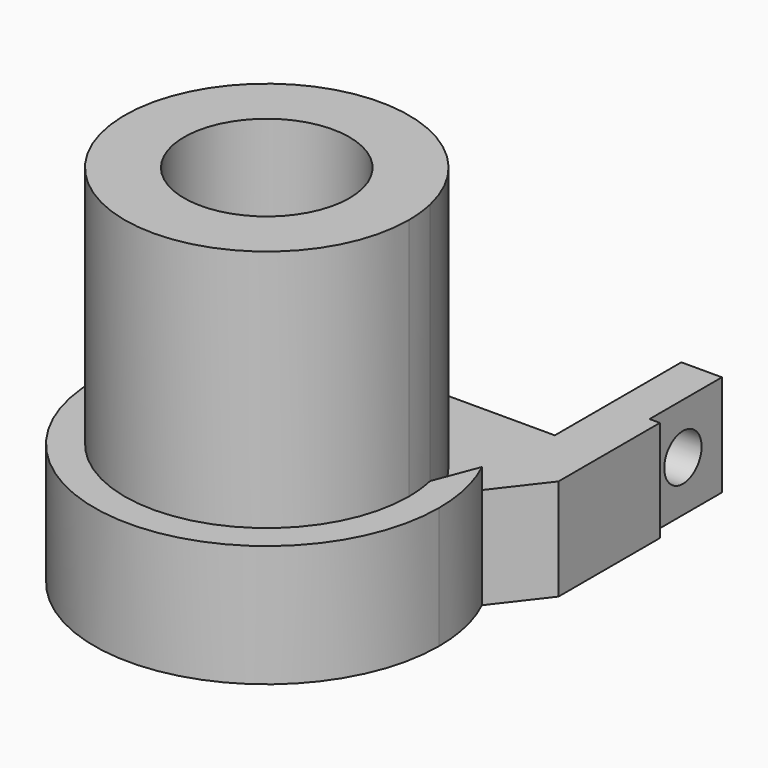
from build123d import *

# Parameters (mm, degrees)
F0_R     = 4.075
F1_DEPTH = 18
F0_W     = 2
F0_H     = 4.459151
F2_DEPTH = 5
F3_DEPTH = 6
F4_R     = 1.15
F5_DEPTH = 25


with BuildPart() as f1:
    # F0 (on Top) → F1 (new body)
    with BuildSketch(Plane.XY):
        with BuildLine():
            ThreePointArc((-6.831683, 1.525812), (-0.767534, -6.957794), (7, 0))
            ThreePointArc((7, 0), (6.957794, 0.767534), (6.831683, 1.525812))
            ThreePointArc((6.831683, 1.525812), (0, 7), (-6.831683, 1.525812))
        make_face()
        Circle(F0_R, mode=Mode.SUBTRACT)
    extrude(amount=F1_DEPTH)

    # F0 (on Top) → F2 (join)
    with BuildSketch(Plane.XY):
        Polygon((-9.510325, 12.338503), (-9.510325, 9), (-7, 9), (-7, 12.338503), (-9, 12.338503), align=None)
        with BuildLine():
            Line((-9.510325, 6.091482), (-7.658741, 3.686961))
            ThreePointArc((-7.658741, 3.686961), (-4.522767, 7.196845), (0, 8.5))
            Line((0, 8.5), (0, 9))
            Line((0, 9), (-7, 9))
            Line((-7, 9), (-9.510325, 9))
            Line((-9.510325, 9), (-9.510325, 6.091482))
        make_face()
        with BuildLine():
            ThreePointArc((-6.831683, 1.525812), (0, 7), (6.831683, 1.525812))
            Line((6.831683, 1.525812), (7.658741, 3.686961))
            ThreePointArc((7.658741, 3.686961), (4.522767, 7.196845), (0, 8.5))
            ThreePointArc((0, 8.5), (-4.522767, 7.196845), (-7.658741, 3.686961))
            Line((-7.658741, 3.686961), (-6.831683, 1.525812))
        make_face()
        with BuildLine():
            ThreePointArc((0, 8.5), (4.522767, 7.196845), (7.658741, 3.686961))
            Line((7.658741, 3.686961), (9.510325, 6.091482))
            Line((9.510325, 6.091482), (9.510325, 9))
            Line((9.510325, 9), (7, 9))
            Line((7, 9), (0, 9))
            Line((0, 9), (0, 8.5))
        make_face()
        Polygon((7, 9), (9.510325, 9), (9.510325, 12.338503), (9, 12.338503), (7, 12.338503), align=None)
        with Locations((-8, 14.568078)):
            Rectangle(F0_W, F0_H)
        with Locations((8, 14.568078)):
            Rectangle(F0_W, F0_H)
    extrude(amount=F2_DEPTH)

    # F0 (on Top) → F3 (join)
    with BuildSketch(Plane.XY):
        with BuildLine():
            ThreePointArc((6.831683, 1.525812), (6.957794, 0.767534), (7, 0))
            ThreePointArc((7, 0), (-0.767534, -6.957794), (-6.831683, 1.525812))
            Line((-6.831683, 1.525812), (-7.658741, 3.686961))
            ThreePointArc((-7.658741, 3.686961), (-1.890859, -8.287017), (8.5, 0))
            ThreePointArc((8.5, 0), (8.287017, 1.890859), (7.658741, 3.686961))
            Line((7.658741, 3.686961), (6.831683, 1.525812))
        make_face()
    extrude(amount=F3_DEPTH)

    # F4 (on face) → F5 (cut)
    with BuildSketch(Plane(origin=(-9, 0, 0), x_dir=(0, -1, 0), z_dir=(-1, 0, 0))):
        with Locations((-14.394956, 2.5)):
            Circle(F4_R)
    extrude(amount=-F5_DEPTH, mode=Mode.SUBTRACT)


solid = f1.part
